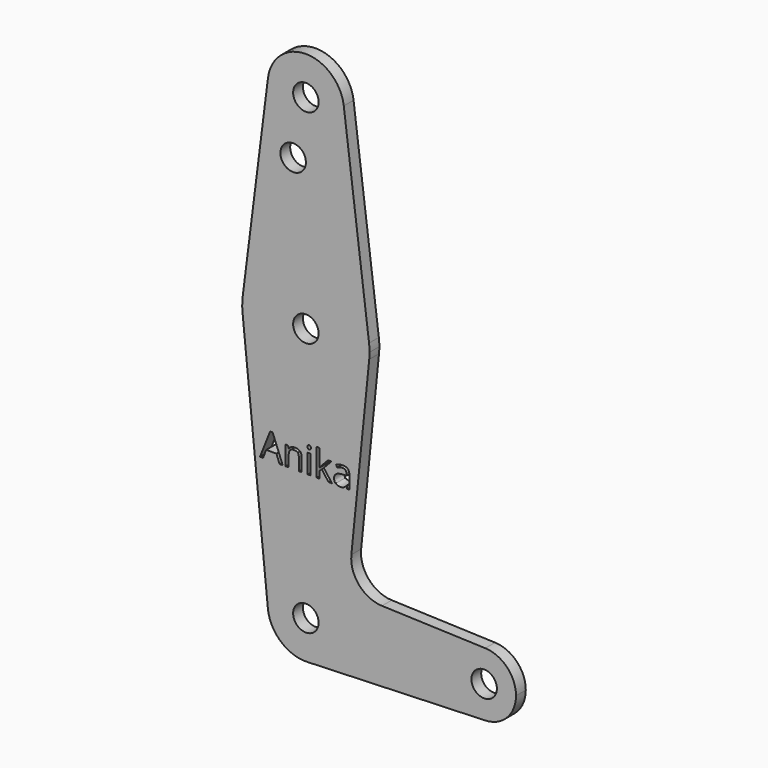
from build123d import *

# Parameters (mm, degrees)
F0_R     = 3.175
F0_W     = 0.7229064099
F0_H     = 4.7706251523
F1_DEPTH = 3.048


with BuildPart() as f1:
    # F0 (on Front) → F1 (new body)
    with BuildSketch(Plane.XZ):
        with BuildLine():
            ThreePointArc((-9.4502929642, 115.490625), (-0.596483242, 104.7936951058), (9.525, 114.3))
            ThreePointArc((9.525, 114.3), (9.5063048942, 114.896483242), (9.4502929642, 115.490625))
            ThreePointArc((9.4502929642, 115.490625), (0, 123.825), (-9.4502929642, 115.490625))
        make_face()
        with Locations((0, 114.3)):
            Circle(F0_R, mode=Mode.SUBTRACT)
        with BuildLine():
            ThreePointArc((9.4502929642, 115.490625), (9.5063048942, 114.896483242), (9.525, 114.3))
            ThreePointArc((9.525, 114.3), (-0.596483242, 104.7936951058), (-9.4502929642, 115.490625))
            Line((-9.4502929642, 115.490625), (-15.7504882737, 65.484375))
            ThreePointArc((-15.7504882737, 65.484375), (0, 79.375), (15.7504882737, 65.484375))
            Line((15.7504882737, 65.484375), (9.4502929642, 115.490625))
        make_face()
        with Locations((-3.175, 100.0252)):
            Circle(F0_R, mode=Mode.SUBTRACT)
        with BuildLine():
            ThreePointArc((15.875, 63.5), (15.8438414904, 64.4941387366), (15.7504882737, 65.484375))
            ThreePointArc((15.7504882737, 65.484375), (0, 79.375), (-15.7504882737, 65.484375))
            ThreePointArc((-15.7504882737, 65.484375), (-15.8737438155, 63.6997054867), (-15.7954255641, 61.9125))
            ThreePointArc((-15.7954255641, 61.9125), (0, 47.625), (15.7954255641, 61.9125))
            ThreePointArc((15.7954255641, 61.9125), (15.8550939106, 62.7052534459), (15.875, 63.5))
        make_face()
        with Locations((0, 63.5)):
            Circle(F0_R, mode=Mode.SUBTRACT)
        with BuildLine():
            ThreePointArc((15.7954255641, 61.9125), (0, 47.625), (-15.7954255641, 61.9125))
            Line((-15.7954255641, 61.9125), (-9.4772553384, -0.9525))
            ThreePointArc((-9.4772553384, -0.9525), (-0.4768479324, 9.5130563464), (9.525, 0))
            ThreePointArc((9.525, 0), (6.8544082857, -6.6138273378), (0.3401785714, -9.5189234444))
            Line((0.3401785714, -9.5189234444), (44.7334821429, -7.9324362036))
            ThreePointArc((44.7334821429, -7.9324362036), (36.5125, 0), (44.7334821429, 7.9324362036))
            Line((44.7334821429, 7.9324362036), (18.9676000005, 8.8532337108))
            ThreePointArc((18.9676000005, 8.8532337108), (13.2611998974, 11.5713591498), (11.3411865923, 17.5933818124))
            Line((11.3411865923, 17.5933818124), (15.7954255641, 61.9125))
        make_face()
        Polygon((-5.7888228126, 31.6815939556), (-6.5549086035, 31.6815939556), (-7.3474591762, 33.7054533268), (-9.8978284182, 33.7054533268), (-10.6806288082, 31.6815939556), (-11.43, 31.6815939556), (-8.9144528394, 38.0721423349), (-8.2918340239, 38.0721423349), align=None, mode=Mode.SUBTRACT)
        with BuildLine():
            Line((-1.0349122593, 31.6815939556), (-1.7578186693, 31.6815939556))
            Line((-1.7578186693, 31.6815939556), (-1.7578186693, 34.7682232513))
            add(Edge.make_bspline(
                [(-1.7578186693, 34.7682232513), (-1.7578186693, 35.3504484524), (-2.0231629296, 35.6380788447)],
                knots=[0, 0, 0, 1, 1, 1], degree=2))
            add(Edge.make_bspline(
                [(-2.0231629296, 35.6380788447), (-2.2885071899, 35.9257092371), (-2.8554106751, 35.9257092371)],
                knots=[0, 0, 0, 1, 1, 1], degree=2))
            add(Edge.make_bspline(
                [(-2.8554106751, 35.9257092371), (-3.6033889837, 35.9257092371), (-3.9516097977, 35.5210766512)],
                knots=[0, 0, 0, 1, 1, 1], degree=2))
            add(Edge.make_bspline(
                [(-3.9516097977, 35.5210766512), (-4.2998306117, 35.1164440653), (-4.2998306117, 34.184605167)],
                knots=[0, 0, 0, 1, 1, 1], degree=2))
            Line((-4.2998306117, 34.184605167), (-4.2998306117, 31.6815939556))
            Line((-4.2998306117, 31.6815939556), (-5.0227370217, 31.6815939556))
            Line((-5.0227370217, 31.6815939556), (-5.0227370217, 36.452219108))
            Line((-5.0227370217, 36.452219108), (-4.4349402876, 36.452219108))
            Line((-4.4349402876, 36.452219108), (-4.3179380941, 35.7989568608))
            Line((-4.3179380941, 35.7989568608), (-4.2831160127, 35.7989568608))
            add(Edge.make_bspline(
                [(-4.2831160127, 35.7989568608), (-4.0602546917, 36.1513563246), (-3.6598007555, 36.3456635389)],
                knots=[0, 0, 0, 1, 1, 1], degree=2))
            add(Edge.make_bspline(
                [(-3.6598007555, 36.3456635389), (-3.2593468194, 36.5399707531), (-2.76765903, 36.5399707531)],
                knots=[0, 0, 0, 1, 1, 1], degree=2))
            add(Edge.make_bspline(
                [(-2.76765903, 36.5399707531), (-1.9054642944, 36.5399707531), (-1.4701882769, 36.1241951011)],
                knots=[0, 0, 0, 1, 1, 1], degree=2))
            add(Edge.make_bspline(
                [(-1.4701882769, 36.1241951011), (-1.0349122593, 35.7084194492), (-1.0349122593, 34.7932951499)],
                knots=[0, 0, 0, 1, 1, 1], degree=2))
            Line((-1.0349122593, 34.7932951499), (-1.0349122593, 31.6815939556))
        make_face(mode=Mode.SUBTRACT)
        with Locations((0.8099616135, 34.0669065318)):
            Rectangle(F0_W, F0_H, mode=Mode.SUBTRACT)
        with BuildLine():
            add(Edge.make_bspline(
                [(0.5090988301, 37.3812722398), (0.3872215452, 37.5010601999), (0.3872215452, 37.7448147697)],
                knots=[0, 0, 0, 1, 1, 1], degree=2))
            add(Edge.make_bspline(
                [(0.3872215452, 37.7448147697), (0.3872215452, 37.9927479893), (0.5090988301, 38.1083572995)],
                knots=[0, 0, 0, 1, 1, 1], degree=2))
            add(Edge.make_bspline(
                [(0.5090988301, 38.1083572995), (0.630976115, 38.2239666098), (0.8148367049, 38.2239666098)],
                knots=[0, 0, 0, 1, 1, 1], degree=2))
            add(Edge.make_bspline(
                [(0.8148367049, 38.2239666098), (0.9889471119, 38.2239666098), (1.1150030466, 38.1062679747)],
                knots=[0, 0, 0, 1, 1, 1], degree=2))
            add(Edge.make_bspline(
                [(1.1150030466, 38.1062679747), (1.2410589812, 37.9885693395), (1.2410589812, 37.7448147697)],
                knots=[0, 0, 0, 1, 1, 1], degree=2))
            add(Edge.make_bspline(
                [(1.2410589812, 37.7448147697), (1.2410589812, 37.5010601999), (1.1150030466, 37.3812722398)],
                knots=[0, 0, 0, 1, 1, 1], degree=2))
            add(Edge.make_bspline(
                [(1.1150030466, 37.3812722398), (0.9889471119, 37.2614842798), (0.8148367049, 37.2614842798)],
                knots=[0, 0, 0, 1, 1, 1], degree=2))
            add(Edge.make_bspline(
                [(0.8148367049, 37.2614842798), (0.630976115, 37.2614842798), (0.5090988301, 37.3812722398)],
                knots=[0, 0, 0, 1, 1, 1], degree=2))
        make_face(mode=Mode.SUBTRACT)
        with BuildLine():
            Line((3.3833134292, 34.1233183037), (3.4181355106, 34.1233183037))
            add(Edge.make_bspline(
                [(3.4181355106, 34.1233183037), (3.6047818669, 34.3893590056), (3.9878247624, 34.8197599318)],
                knots=[0, 0, 0, 1, 1, 1], degree=2))
            Line((3.9878247624, 34.8197599318), (5.5283536437, 36.452219108))
            Line((5.5283536437, 36.452219108), (6.3863697295, 36.452219108))
            Line((6.3863697295, 36.452219108), (4.4530477699, 34.4200024372))
            Line((4.4530477699, 34.4200024372), (6.5214794053, 31.6815939556))
            Line((6.5214794053, 31.6815939556), (5.6467487204, 31.6815939556))
            Line((5.6467487204, 31.6815939556), (3.9613599805, 33.9366719474))
            Line((3.9613599805, 33.9366719474), (3.4181355106, 33.4658774068))
            Line((3.4181355106, 33.4658774068), (3.4181355106, 31.6815939556))
            Line((3.4181355106, 31.6815939556), (2.7035864002, 31.6815939556))
            Line((2.7035864002, 31.6815939556), (2.7035864002, 38.4551852303))
            Line((2.7035864002, 38.4551852303), (3.4181355106, 38.4551852303))
            Line((3.4181355106, 38.4551852303), (3.4181355106, 34.8629393127))
            add(Edge.make_bspline(
                [(3.4181355106, 34.8629393127), (3.4181355106, 34.6247562759), (3.3833134292, 34.1233183037)],
                knots=[0, 0, 0, 1, 1, 1], degree=2))
        make_face(mode=Mode.SUBTRACT)
        with BuildLine():
            Line((10.8519534487, 31.6815939556), (10.3156933951, 31.6815939556))
            Line((10.3156933951, 31.6815939556), (10.1722264197, 32.3613209846))
            Line((10.1722264197, 32.3613209846), (10.1374043383, 32.3613209846))
            add(Edge.make_bspline(
                [(10.1374043383, 32.3613209846), (9.7808262247, 31.9128125762), (9.426337436, 31.7533274433)],
                knots=[0, 0, 0, 1, 1, 1], degree=2))
            add(Edge.make_bspline(
                [(9.426337436, 31.7533274433), (9.0718486473, 31.5938423105), (8.5397672435, 31.5938423105)],
                knots=[0, 0, 0, 1, 1, 1], degree=2))
            add(Edge.make_bspline(
                [(8.5397672435, 31.5938423105), (7.8307896661, 31.5938423105), (7.4282464051, 31.9601706069)],
                knots=[0, 0, 0, 1, 1, 1], degree=2))
            add(Edge.make_bspline(
                [(7.4282464051, 31.9601706069), (7.025703144, 32.3264989032), (7.025703144, 33.0006543992)],
                knots=[0, 0, 0, 1, 1, 1], degree=2))
            add(Edge.make_bspline(
                [(7.025703144, 33.0006543992), (7.025703144, 34.4450743359), (9.336496466, 34.5147184987)],
                knots=[0, 0, 0, 1, 1, 1], degree=2))
            Line((9.336496466, 34.5147184987), (10.1457616378, 34.5411832805))
            Line((10.1457616378, 34.5411832805), (10.1457616378, 34.8378674141))
            add(Edge.make_bspline(
                [(10.1457616378, 34.8378674141), (10.1457616378, 35.3991993663), (9.9047928345, 35.6666329515)],
                knots=[0, 0, 0, 1, 1, 1], degree=2))
            add(Edge.make_bspline(
                [(9.9047928345, 35.6666329515), (9.6638240312, 35.9340665367), (9.1317426273, 35.9340665367)],
                knots=[0, 0, 0, 1, 1, 1], degree=2))
            add(Edge.make_bspline(
                [(9.1317426273, 35.9340665367), (8.5355885937, 35.9340665367), (7.7834316354, 35.5691311236)],
                knots=[0, 0, 0, 1, 1, 1], degree=2))
            Line((7.7834316354, 35.5691311236), (7.5605703144, 36.1221057763))
            add(Edge.make_bspline(
                [(7.5605703144, 36.1221057763), (7.9129697782, 36.3129307824), (8.3329240799, 36.4215756763)],
                knots=[0, 0, 0, 1, 1, 1], degree=2))
            add(Edge.make_bspline(
                [(8.3329240799, 36.4215756763), (8.7528783817, 36.5302205703), (9.1763148915, 36.5302205703)],
                knots=[0, 0, 0, 1, 1, 1], degree=2))
            add(Edge.make_bspline(
                [(9.1763148915, 36.5302205703), (10.0287594443, 36.5302205703), (10.4403564465, 36.1520527663)],
                knots=[0, 0, 0, 1, 1, 1], degree=2))
            add(Edge.make_bspline(
                [(10.4403564465, 36.1520527663), (10.8519534487, 35.7738849622), (10.8519534487, 34.9381550085)],
                knots=[0, 0, 0, 1, 1, 1], degree=2))
            Line((10.8519534487, 34.9381550085), (10.8519534487, 31.6815939556))
        make_face(mode=Mode.SUBTRACT)
        with BuildLine():
            ThreePointArc((9.525, 0), (-0.4768479324, 9.5130563464), (-9.4772553384, -0.9525))
            ThreePointArc((-9.4772553384, -0.9525), (-6.2623833816, -7.1769199091), (0.3401785714, -9.5189234444))
            ThreePointArc((0.3401785714, -9.5189234444), (6.8544082857, -6.6138273378), (9.525, 0))
        make_face()
        Circle(F0_R, mode=Mode.SUBTRACT)
        with BuildLine():
            ThreePointArc((44.7334821429, 7.9324362036), (36.5125, 0), (44.7334821429, -7.9324362036))
            ThreePointArc((44.7334821429, -7.9324362036), (50.1620069047, -5.5115227815), (52.3875, 0))
            ThreePointArc((52.3875, 0), (50.1620069047, 5.5115227815), (44.7334821429, 7.9324362036))
        make_face()
        with Locations((44.45, 0)):
            Circle(F0_R, mode=Mode.SUBTRACT)
    extrude(amount=F1_DEPTH)


solid = f1.part
